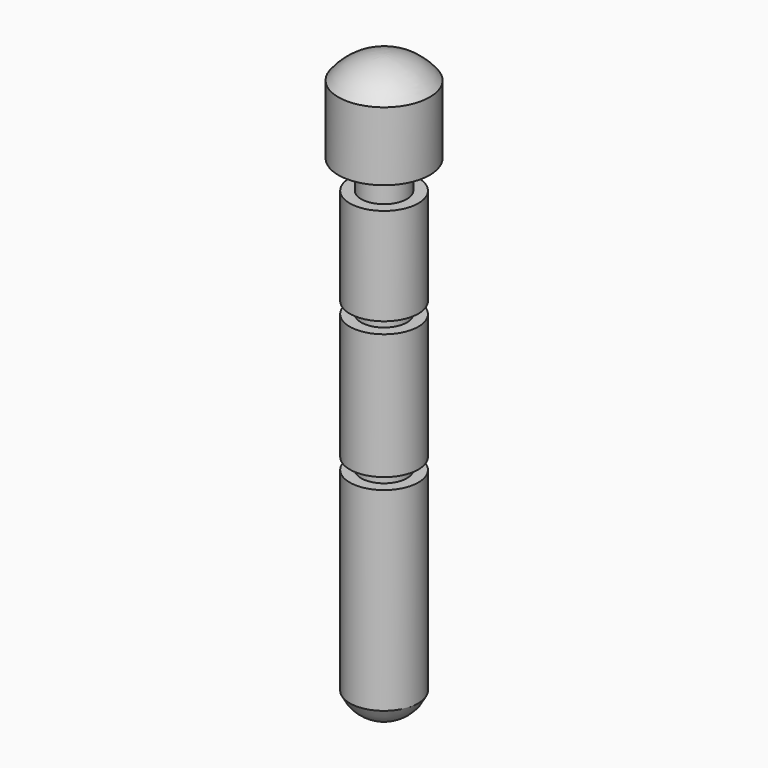
from build123d import *


with BuildPart() as f1:
    # F0 (on Front) → F1 (revolve)
    with BuildSketch(Plane.XZ):
        with BuildLine():
            Line((4, 8.882168), (4, 14.882168))
            ThreePointArc((4, 14.882168), (2.236068, 16.354304), (0, 16.882168))
            Line((0, 16.882168), (0, -34.117832))
            ThreePointArc((0, -34.117832), (1.802776, -33.571995), (3, -32.117832))
            Line((3, -32.117832), (3, -15.117832))
            Line((3, -15.117832), (2, -15.117832))
            Line((2, -15.117832), (2, -14.117832))
            Line((2, -14.117832), (3, -14.117832))
            Line((3, -14.117832), (3, -3.117832))
            Line((3, -3.117832), (2, -3.117832))
            Line((2, -3.117832), (2, -2.117832))
            Line((2, -2.117832), (3, -2.117832))
            Line((3, -2.117832), (3, 6.382168))
            Line((3, 6.382168), (2, 6.382168))
            Line((2, 6.382168), (2, 8.882168))
            Line((2, 8.882168), (4, 8.882168))
        make_face()
    revolve(axis=Axis((0, 0, 12.44835), (0, 0, 1)))


solid = f1.part
